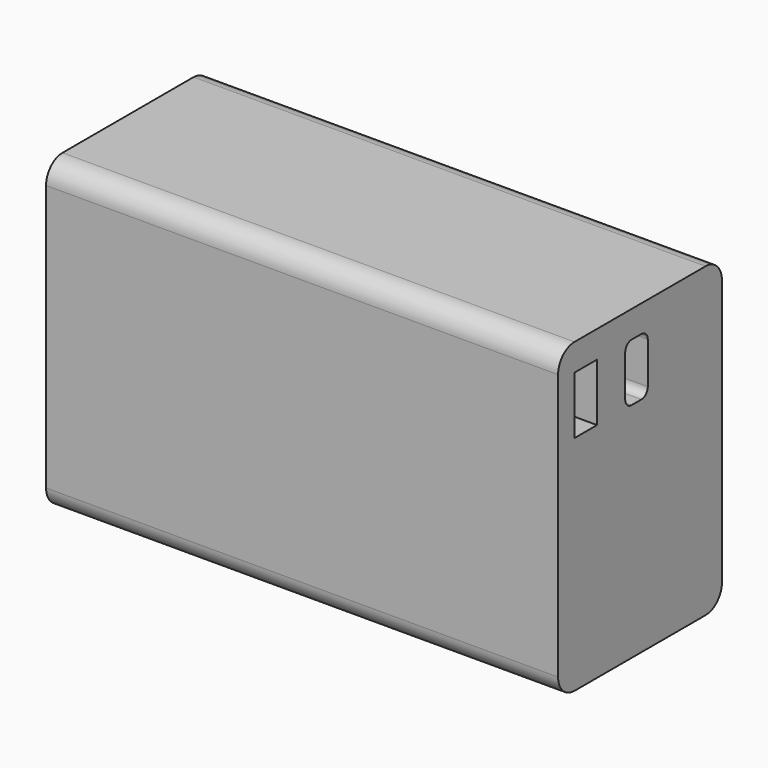
from build123d import *

# Parameters (mm, degrees)
F0_W     = 127
F0_H     = 76.2
F1_DEPTH = 50.8
F2_R     = 5.08
F3_W     = 7
F3_H     = 14.3
F4_DEPTH = 16.4
F6_DEPTH = 16.4084


with BuildPart() as f1:
    # F0 (on Front) → F1 (new body)
    with BuildSketch(Plane.XZ):
        Rectangle(F0_W, F0_H)
    extrude(amount=F1_DEPTH)

    # F2
    f2_edges = [f1.edges().sort_by_distance(p)[0] for p in [
        (0, -50.8, 38.1),
        (0, 0, 38.1),
        (0, 0, -38.1),
        (0, -50.8, -38.1),
    ]]
    fillet(f2_edges, radius=F2_R)

    # F3 (on face) → F4 (cut)
    with BuildSketch(Plane.YZ.offset(63.5)):
        with Locations((-42.22, 24.25)):
            Rectangle(F3_W, F3_H)
    extrude(amount=-F4_DEPTH, mode=Mode.SUBTRACT)

    # F5 (on face) → F6 (cut)
    with BuildSketch(Plane.YZ.offset(63.5)):
        with BuildLine():
            Line((-24.988418, 31.4), (-27.988418, 31.4))
            ThreePointArc((-27.988418, 31.4), (-29.402631, 30.814213), (-29.988418, 29.4))
            Line((-29.988418, 29.4), (-29.988418, 19.1))
            ThreePointArc((-29.988418, 19.1), (-29.402631, 17.685786), (-27.988418, 17.1))
            Line((-27.988418, 17.1), (-24.988418, 17.1))
            ThreePointArc((-24.988418, 17.1), (-23.574204, 17.685786), (-22.988418, 19.1))
            Line((-22.988418, 19.1), (-22.988418, 29.4))
            ThreePointArc((-22.988418, 29.4), (-23.574204, 30.814213), (-24.988418, 31.4))
        make_face()
    extrude(amount=-F6_DEPTH, mode=Mode.SUBTRACT)


solid = f1.part
